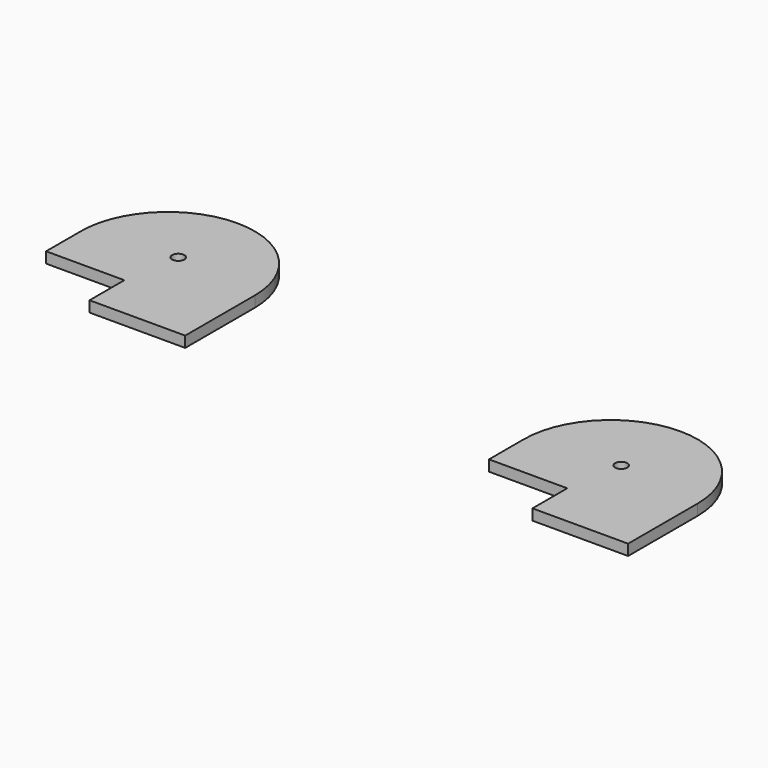
from build123d import *

# Parameters (mm, degrees)
F1_DEPTH = 3.175
F2_DEPTH = 3.175


with BuildPart() as f1:
    # F0 (on Top) → F1 (new body)
    with BuildSketch(Plane.XY):
        with BuildLine():
            Line((-108.732894063, 47.0662403889), (-108.732894063, 19.6342403889))
            Line((-108.732894063, 19.6342403889), (-83.332894063, 19.6342403889))
            Line((-83.332894063, 19.6342403889), (-83.332894063, 45.0342403889))
            ThreePointArc((-83.332894063, 45.0342403889), (-90.7723818209, 62.994752631), (-108.732894063, 70.4342403889))
            Line((-108.732894063, 70.4342403889), (-108.732894063, 50.6222403889))
            ThreePointArc((-108.732894063, 50.6222403889), (-107.475658206, 50.1014762458), (-106.954894063, 48.8442403889))
            ThreePointArc((-106.954894063, 48.8442403889), (-107.475658206, 47.5870045319), (-108.732894063, 47.0662403889))
        make_face()
        with BuildLine():
            Line((-111.272894063, 32.3342403889), (-111.272894063, 19.6342403889))
            Line((-111.272894063, 19.6342403889), (-108.732894063, 19.6342403889))
            Line((-108.732894063, 19.6342403889), (-108.732894063, 47.0662403889))
            ThreePointArc((-108.732894063, 47.0662403889), (-110.510894063, 48.8442403889), (-108.732894063, 50.6222403889))
            Line((-108.732894063, 50.6222403889), (-108.732894063, 70.4342403889))
            ThreePointArc((-108.732894063, 70.4342403889), (-126.6934063051, 62.994752631), (-134.132894063, 45.0342403889))
            Line((-134.132894063, 45.0342403889), (-134.132894063, 32.3342403889))
            Line((-134.132894063, 32.3342403889), (-111.272894063, 32.3342403889))
        make_face()
    extrude(amount=F1_DEPTH)


with BuildPart() as f2:
    # F0 (on Top) → F2 (new body)
    with BuildSketch(Plane.XY):
        with BuildLine():
            Line((34.3770046688, 29.9096776571), (34.3770046688, 2.4776776571))
            Line((34.3770046688, 2.4776776571), (59.7770046688, 2.4776776571))
            Line((59.7770046688, 2.4776776571), (59.7770046688, 27.8776776571))
            ThreePointArc((59.7770046688, 27.8776776571), (52.3375169109, 45.8381898992), (34.3770046688, 53.2776776571))
            Line((34.3770046688, 53.2776776571), (34.3770046688, 33.4656776571))
            ThreePointArc((34.3770046688, 33.4656776571), (35.6342405257, 32.9449135141), (36.1550046688, 31.6876776571))
            ThreePointArc((36.1550046688, 31.6876776571), (35.6342405257, 30.4304418002), (34.3770046688, 29.9096776571))
        make_face()
        with BuildLine():
            Line((31.8370046688, 15.1776776571), (31.8370046688, 2.4776776571))
            Line((31.8370046688, 2.4776776571), (34.3770046688, 2.4776776571))
            Line((34.3770046688, 2.4776776571), (34.3770046688, 29.9096776571))
            ThreePointArc((34.3770046688, 29.9096776571), (32.5990046688, 31.6876776571), (34.3770046688, 33.4656776571))
            Line((34.3770046688, 33.4656776571), (34.3770046688, 53.2776776571))
            ThreePointArc((34.3770046688, 53.2776776571), (16.4164924266, 45.8381898992), (8.9770046688, 27.8776776571))
            Line((8.9770046688, 27.8776776571), (8.9770046688, 15.1776776571))
            Line((8.9770046688, 15.1776776571), (31.8370046688, 15.1776776571))
        make_face()
    extrude(amount=F2_DEPTH)


solid = Compound([f1.part, f2.part])
